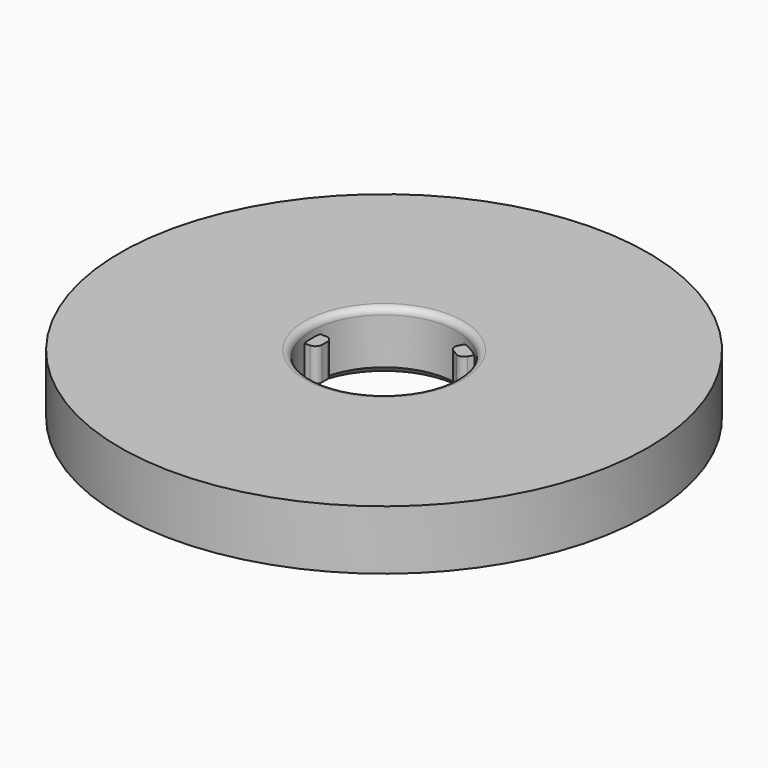
from build123d import *

# Parameters (mm, degrees)
F0_R     = 40
F0_R_2   = 11
F1_DEPTH = 9
F2_R     = 1
F3_SIZE  = 1
F9_DEPTH = 2.5


with BuildPart() as f1:
    # F0 (on Top) → F1 (new body)
    with BuildSketch(Plane.XY):
        Circle(F0_R)
        Circle(F0_R_2, mode=Mode.SUBTRACT)
    extrude(amount=F1_DEPTH)

    # F2
    f2_edges = [f1.edges().sort_by_distance(p)[0] for p in [
        (-11, 0, 9),
    ]]
    fillet(f2_edges, radius=F2_R)

    # F3
    f3_edges = [f1.edges().sort_by_distance(p)[0] for p in [
        (-11, 0, 0),
    ]]
    chamfer(f3_edges, length=F3_SIZE)

    # F8 (on face) → F9 (join, symmetric)
    with BuildSketch(Plane.XY.offset(4.5)):
        with BuildLine():
            Line((-12, 1.5), (-12, -1.5))
            Line((-12, -1.5), (-10, -1.5))
            ThreePointArc((-10, -1.5), (-9.292893, -1.207107), (-9, -0.5))
            Line((-9, -0.5), (-9, 0.5))
            ThreePointArc((-9, 0.5), (-9.292893, 1.207107), (-10, 1.5))
            Line((-10, 1.5), (-12, 1.5))
        make_face()
        with BuildLine():
            Line((4.700962, -11.142305), (7.299038, -9.642305))
            Line((7.299038, -9.642305), (6.299038, -7.910254))
            ThreePointArc((6.299038, -7.910254), (5.691832, -7.444328), (4.933013, -7.544229))
            Line((4.933013, -7.544229), (4.066987, -8.044229))
            ThreePointArc((4.066987, -8.044229), (3.601061, -8.651435), (3.700962, -9.410254))
            Line((3.700962, -9.410254), (4.700962, -11.142305))
        make_face()
        with BuildLine():
            Line((7.299038, 9.642305), (4.700962, 11.142305))
            Line((4.700962, 11.142305), (3.700962, 9.410254))
            ThreePointArc((3.700962, 9.410254), (3.601061, 8.651435), (4.066987, 8.044229))
            Line((4.066987, 8.044229), (4.933013, 7.544229))
            ThreePointArc((4.933013, 7.544229), (5.691832, 7.444328), (6.299038, 7.910254))
            Line((6.299038, 7.910254), (7.299038, 9.642305))
        make_face()
    extrude(amount=F9_DEPTH, both=True)


solid = f1.part
